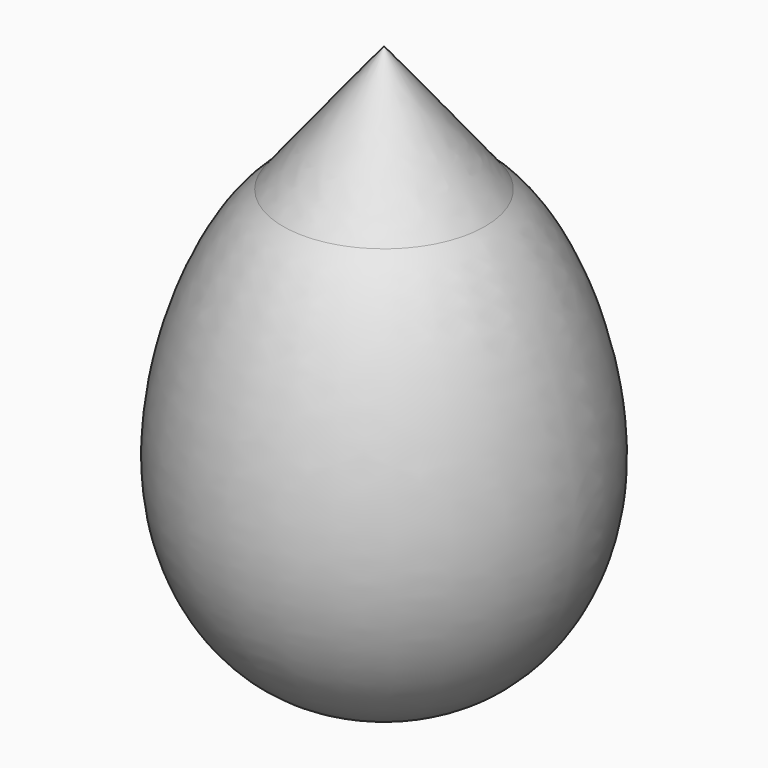
from build123d import *


with BuildPart() as f1:
    # F0 (on Front) → F1 (revolve)
    with BuildSketch(Plane.XZ):
        with BuildLine():
            add(Edge.make_bspline(
                [(2.8668404905, 28.9163798437), (-2.6393624465, 33.4938387179), (-9.0333679093, 33.4767133368), (-13.5680716485, 33.4086445987)],
                knots=[0.7970197303, 0.7970197303, 0.7970197303, 0.7970197303, 1, 1, 1, 1], degree=3))
            ThreePointArc((2.8668404905, 28.9163798437), (-5.3144363157, 39.1877780878), (-13.5680716485, 49.4011230767))
            Line((-13.5680716485, 49.4011230767), (-13.5680716485, 33.4086445987))
        make_face()
        with BuildLine():
            Line((-13.5680716485, -38.2969665628), (-13.5680716485, -42.7913554013))
            add(Edge.make_bspline(
                [(-13.5680716485, -42.7913554013), (-8.6964661114, -42.7939735109), (5.6877540192, -41.218041673), (23.638077422, -13.3564965508), (11.6919761973, 21.5798003136), (2.8668404905, 28.9163798437)],
                knots=[0, 0, 0, 0, 0.2031758179, 0.4716905614, 0.7970197303, 0.7970197303, 0.7970197303, 0.7970197303], degree=3))
            add(Edge.make_bspline(
                [(2.8668404905, 28.9163798437), (-2.6393624465, 33.4938387179), (-9.0333679093, 33.4767133368), (-13.5680716485, 33.4086445987)],
                knots=[0.7970197303, 0.7970197303, 0.7970197303, 0.7970197303, 1, 1, 1, 1], degree=3))
            Line((-13.5680716485, 33.4086445987), (-13.5680716485, 29.5464943935))
            Line((-13.5680716485, 29.5464943935), (-4.7178252002, 20.6962479452))
            Line((-4.7178252002, 20.6962479452), (5.207470044, 9.1504971085))
            Line((5.207470044, 9.1504971085), (11.870037396, -7.6867774614))
            Line((11.870037396, -7.6867774614), (10.8487689868, -14.8424422368))
            Line((10.8487689868, -14.8424422368), (9.8367816467, -21.933077859))
            Line((9.8367816467, -21.933077859), (5.5174212903, -29.947925359))
            Line((5.5174212903, -29.947925359), (0, -35.2792739868))
            Line((0, -35.2792739868), (-6.033829879, -38.6113673449))
            Line((-6.033829879, -38.6113673449), (-11.3651771098, -38.6113673449))
            Line((-11.3651771098, -38.6113673449), (-13.5680716485, -38.2969665628))
        make_face()
    revolve(axis=Axis((-13.5680716485, 0, -2.5137010962), (0, 0, -1)))


solid = f1.part
